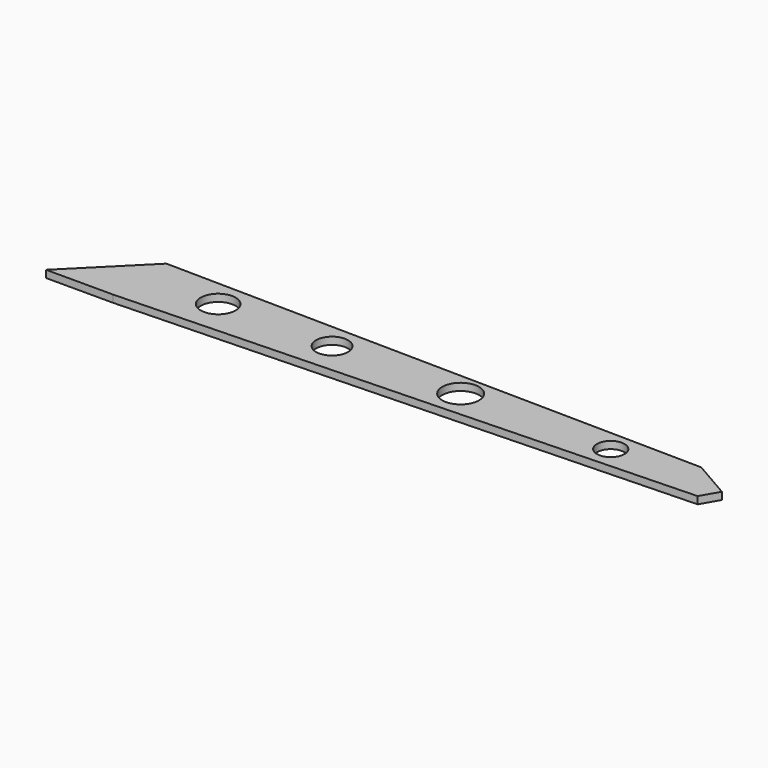
from build123d import *

# Parameters (mm, degrees)
F1_DEPTH = 2.5
F3_DEPTH = 25
F5_DEPTH = 25
F7_DEPTH = 25
F9_DEPTH = 2.5


with BuildPart() as f1:
    # F0 (on Top) → F1 (new body)
    with BuildSketch(Plane.XY):
        with BuildLine():
            ThreePointArc((155.8122909032, 0), (160.5434517066, 4.7311608034), (165.27461251, 0))
            Line((165.27461251, 0), (200, 0))
            Line((200, 0), (200, 6.6666666667))
            Line((200, 6.6666666667), (0, 9.6592448227))
            Line((0, 9.6592448227), (0, 0))
            Line((0, 0), (19.529893736, 0))
            ThreePointArc((19.529893736, 0), (25.529893736, 6), (31.529893736, 0))
            Line((31.529893736, 0), (59.1987557411, 0))
            ThreePointArc((59.1987557411, 0), (64.6987557411, 5.5), (70.1987557411, 0))
            Line((70.1987557411, 0), (102.6123418173, 0))
            ThreePointArc((102.6123418173, 0), (108.9262366295, 6.3138948122), (115.2401314417, 0))
            Line((115.2401314417, 0), (155.8122909032, 0))
        make_face()
        with BuildLine():
            Line((200, 0), (165.27461251, 0))
            ThreePointArc((165.27461251, 0), (160.5434517066, -4.7311608034), (155.8122909032, 0))
            Line((155.8122909032, 0), (115.2401314417, 0))
            ThreePointArc((115.2401314417, 0), (108.9262366295, -6.3138948122), (102.6123418173, 0))
            Line((102.6123418173, 0), (70.1987557411, 0))
            ThreePointArc((70.1987557411, 0), (64.6987557411, -5.5), (59.1987557411, 0))
            Line((59.1987557411, 0), (31.529893736, 0))
            ThreePointArc((31.529893736, 0), (25.529893736, -6), (19.529893736, 0))
            Line((19.529893736, 0), (0, 0))
            Line((0, 0), (0, -13.3407551773))
            Line((0, -13.3407551773), (200, -6.6666666667))
            Line((200, -6.6666666667), (200, 0))
        make_face()
    extrude(amount=F1_DEPTH)

    # F2 (on face) → F3 (cut)
    with BuildSketch(Plane.XY.offset(2.5)):
        Polygon((188.7384860036, 6.8351714706), (200, 0.3333333333), (200, 6.6666666667), align=None)
    extrude(amount=-F3_DEPTH, mode=Mode.SUBTRACT)

    # F4 (on face) → F5 (cut)
    with BuildSketch(Plane(origin=(0, 0, 0), x_dir=(1, 0, 0), z_dir=(0, 0, -1))):
        Polygon((195.8791541104, 6.8041811177), (200, -0.3333333333), (200, 6.6666666667), align=None)
    extrude(amount=-F5_DEPTH, mode=Mode.SUBTRACT)

    # F6 (on face) → F7 (cut)
    with BuildSketch(Plane(origin=(0, 0, 0), x_dir=(1, 0, 0), z_dir=(0, 0, -1))):
        Polygon((200, -0.3333333333), (199.3791541104, 0.7420032912), (186.1890294883, -6.87331871), (188.7384860036, -6.8351714706), align=None)
    extrude(amount=-F7_DEPTH, mode=Mode.SUBTRACT)

    # F8 (on face) → F9 (join)
    with BuildSketch(Plane(origin=(0, 0, 0), x_dir=(1, 0, 0), z_dir=(0, 0, -1))):
        Polygon((0, -9.6592448227), (0, 13.3407551773), (-23, 13.3407551773), align=None)
    extrude(amount=-F9_DEPTH)


solid = f1.part
